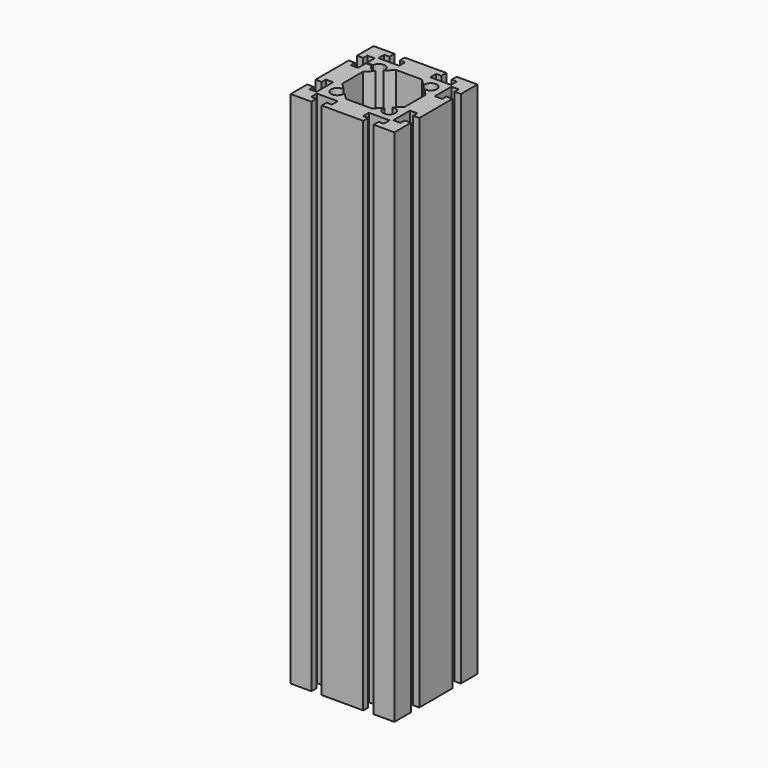
from build123d import *

# Parameters (mm, degrees)
F1_DEPTH = 500


with BuildPart() as f1:
    # F0 (on Top) → F1 (new body)
    with BuildSketch(Plane.XY):
        with BuildLine():
            Line((-30, 50), (-50, 50))
            Line((-50, 50), (-50, 30))
            Line((-50, 30), (-44, 30))
            Line((-44, 30), (-44, 35))
            Line((-44, 35), (-37, 35))
            Line((-37, 35), (-37, 25.5))
            Line((-37, 25.5), (-30.97913, 25.5))
            ThreePointArc((-30.97913, 25.5), (-29.242641, 29.242641), (-25.5, 30.97913))
            ThreePointArc((-25.5, 30.97913), (-20.408156, 28.861991), (-19.195037, 23.482633))
            Line((-19.195037, 23.482633), (-12.5, 30.17767))
            Line((-12.5, 30.17767), (12.5, 30.17767))
            Line((12.5, 30.17767), (19.195037, 23.482633))
            ThreePointArc((19.195037, 23.482633), (29.242641, 29.242641), (23.482633, 19.195037))
            Line((23.482633, 19.195037), (30.17767, 12.5))
            Line((30.17767, 12.5), (30.17767, -12.5))
            Line((30.17767, -12.5), (23.482633, -19.195037))
            ThreePointArc((23.482633, -19.195037), (29.242641, -29.242641), (19.195037, -23.482633))
            Line((19.195037, -23.482633), (12.5, -30.17767))
            Line((12.5, -30.17767), (-12.5, -30.17767))
            Line((-12.5, -30.17767), (-19.195037, -23.482633))
            ThreePointArc((-19.195037, -23.482633), (-29.242641, -29.242641), (-23.482633, -19.195037))
            Line((-23.482633, -19.195037), (-30.17767, -12.5))
            Line((-30.17767, -12.5), (-30.17767, 12.5))
            Line((-30.17767, 12.5), (-23.482633, 19.195037))
            ThreePointArc((-23.482633, 19.195037), (-28.465904, 20.102295), (-30.97913, 24.5))
            Line((-30.97913, 24.5), (-37, 24.5))
            Line((-37, 24.5), (-37, 15))
            Line((-37, 15), (-44, 15))
            Line((-44, 15), (-44, 20))
            Line((-44, 20), (-50, 20))
            Line((-50, 20), (-50, -20))
            Line((-50, -20), (-44, -20))
            Line((-44, -20), (-44, -15))
            Line((-44, -15), (-37, -15))
            Line((-37, -15), (-37, -35))
            Line((-37, -35), (-44, -35))
            Line((-44, -35), (-44, -30))
            Line((-44, -30), (-50, -30))
            Line((-50, -30), (-50, -50))
            Line((-50, -50), (-30, -50))
            Line((-30, -50), (-30, -44))
            Line((-30, -44), (-35, -44))
            Line((-35, -44), (-35, -37))
            Line((-35, -37), (-15, -37))
            Line((-15, -37), (-15, -44))
            Line((-15, -44), (-20, -44))
            Line((-20, -44), (-20, -50))
            Line((-20, -50), (20, -50))
            Line((20, -50), (20, -44))
            Line((20, -44), (15, -44))
            Line((15, -44), (15, -37))
            Line((15, -37), (35, -37))
            Line((35, -37), (35, -44))
            Line((35, -44), (30, -44))
            Line((30, -44), (30, -50))
            Line((30, -50), (50, -50))
            Line((50, -50), (50, -30))
            Line((50, -30), (44, -30))
            Line((44, -30), (44, -35))
            Line((44, -35), (37, -35))
            Line((37, -35), (37, -15))
            Line((37, -15), (44, -15))
            Line((44, -15), (44, -20))
            Line((44, -20), (50, -20))
            Line((50, -20), (50, 20))
            Line((50, 20), (44, 20))
            Line((44, 20), (44, 15))
            Line((44, 15), (37, 15))
            Line((37, 15), (37, 35))
            Line((37, 35), (44, 35))
            Line((44, 35), (44, 30))
            Line((44, 30), (50, 30))
            Line((50, 30), (50, 50))
            Line((50, 50), (30, 50))
            Line((30, 50), (30, 44))
            Line((30, 44), (35, 44))
            Line((35, 44), (35, 37))
            Line((35, 37), (15, 37))
            Line((15, 37), (15, 44))
            Line((15, 44), (20, 44))
            Line((20, 44), (20, 50))
            Line((20, 50), (-20, 50))
            Line((-20, 50), (-20, 44))
            Line((-20, 44), (-15, 44))
            Line((-15, 44), (-15, 37))
            Line((-15, 37), (-25.5, 37))
            Line((-25.5, 37), (-35, 37))
            Line((-35, 37), (-35, 44))
            Line((-35, 44), (-30, 44))
            Line((-30, 44), (-30, 50))
        make_face()
    extrude(amount=F1_DEPTH)


solid = f1.part
